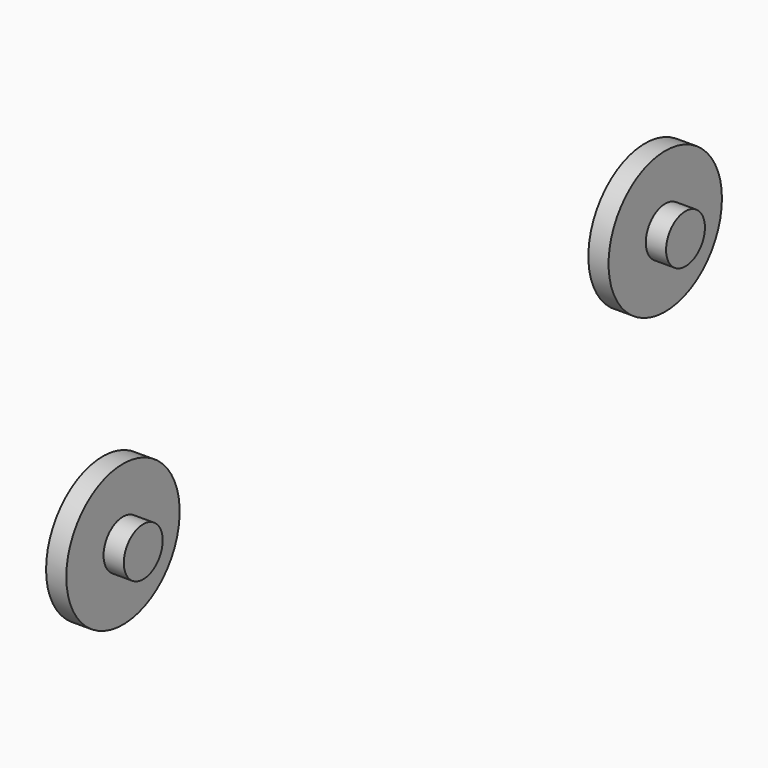
from build123d import *

# Parameters (mm, degrees)
F0_R     = 7
F1_DEPTH = 2
F2_R     = 2.4
F3_DEPTH = 2


with BuildPart() as f1:
    # F0 (on Right) → F1 (new body)
    with BuildSketch(Plane.YZ):
        with Locations((33.491679, -42.87177)):
            Circle(F0_R)
    extrude(amount=F1_DEPTH)

    # F2 (on face) → F3 (join)
    with BuildSketch(Plane.YZ.offset(2)):
        with Locations((33.491679, -42.87177)):
            Circle(F2_R)
    extrude(amount=F3_DEPTH)


with BuildPart() as f4_1:
    # F4: instance of F1
    add(f1.part.mirror(Plane.XZ))


solid = Compound([f1.part, f4_1.part])
